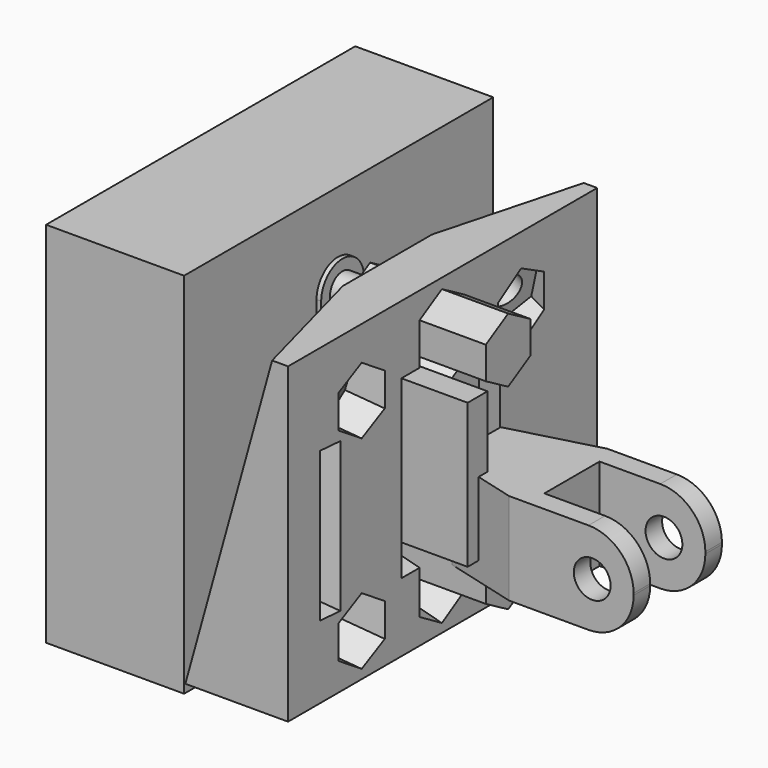
from build123d import *

# Parameters (mm, degrees)
PRISM001_DEPTH            = 15
CYLINDER261_R             = 1.7
CYLINDER261_DEPTH         = 20
BOX_W                     = 20
BOX_H                     = 2.7
BOX_DEPTH                 = 15.7
CYLINDER259_R             = 1.7
CYLINDER259_DEPTH         = 20
CYLINDER258_R             = 1.7
CYLINDER258_DEPTH         = 20
CYLINDER256_R             = 2.9
CYLINDER256_DEPTH         = 2
BOX181_W                  = 2
BOX181_H                  = 5.8
BOX181_DEPTH              = 21.3
CYLINDER257_R             = 2.9
CYLINDER257_DEPTH         = 2
BOX180_W                  = 3
BOX180_H                  = 10.8
BOX180_DEPTH              = 15.5
PRISM_DEPTH               = 15
CYLINDER260_R             = 1.7
CYLINDER260_DEPTH         = 20
BOX182_W                  = 15
BOX182_H                  = 42
BOX182_DEPTH              = 40
FUSION194_PITCH_ANGLE     = 15
FUSION194_PLACEMENT_ANGLE = 15
FUSION202_PITCH_ANGLE     = 15
FUSION202_PLACEMENT_ANGLE = -15
FUSION186_PLACEMENT_ANGLE = 15
BOX195_W                  = 15
BOX195_H                  = 42
BOX195_DEPTH              = 34
BOX208_W                  = 2.5
BOX208_H                  = 15
BOX208_DEPTH              = 15
BOX208_PLACEMENT_ANGLE    = 15
BOX188_W                  = 2.7
BOX188_H                  = 15
BOX188_DEPTH              = 15
BOX188_PLACEMENT_ANGLE    = 15
BOX162_W                  = 16
BOX162_H                  = 7.5
BOX162_DEPTH              = 12
CYLINDER240_R             = 2
CYLINDER240_DEPTH         = 15
BOX163_W                  = 22
BOX163_H                  = 12
BOX163_DEPTH              = 10
FILLET099_R               = 4.9
FILLET099_PLACEMENT_ANGLE = 180
CUT110_ROLL_ANGLE         = 180
CUT110_PLACEMENT_ANGLE    = -90
CUT128_PLACEMENT_ANGLE    = 90


with BuildPart() as prisma001:
    # Prism001 → Prism001 (new body)
    with BuildSketch(Plane(origin=(5, 5.4, 18.4), x_dir=(0, 0, -1), z_dir=(1, 0, 0))):
        Polygon((3.5, 0), (1.75, 3.031089), (-1.75, 3.031089), (-3.5, 0), (-1.75, -3.031089), (1.75, -3.031089), align=None)
    extrude(amount=PRISM001_DEPTH)


with BuildPart() as fusion178:
    # Cylinder261 → Cylinder261 (new body)
    with BuildSketch(Plane(origin=(0, 5.4, 18.4), x_dir=(0, 0, -1), z_dir=(1, 0, 0))):
        Circle(CYLINDER261_R)
    extrude(amount=CYLINDER261_DEPTH)

    # Fusion178: union Prisma001
    add(prisma001.part)


with BuildPart() as obj1:
    # Box → Box (new body)
    with BuildSketch(Plane(origin=(0, -0.1, -0.1), x_dir=(1, 0, 0), z_dir=(0, 0, 1))):
        with Locations((10, 1.35)):
            Rectangle(BOX_W, BOX_H)
    extrude(amount=BOX_DEPTH)


with BuildPart() as zylinder261:
    # Cylinder259 → Cylinder259 (new body)
    with BuildSketch(Plane(origin=(0, 5.4, 18.4), x_dir=(0, 0, -1), z_dir=(1, 0, 0))):
        Circle(CYLINDER259_R)
    extrude(amount=CYLINDER259_DEPTH)


with BuildPart() as compound:
    # Cylinder258 → Cylinder258 (new body)
    with BuildSketch(Plane(origin=(0, 5.4, -2.9), x_dir=(0, 0, -1), z_dir=(1, 0, 0))):
        Circle(CYLINDER258_R)
    extrude(amount=CYLINDER258_DEPTH)

    # Compound: union Zylinder261
    add(zylinder261.part)


with BuildPart() as zylinder258:
    # Cylinder256 → Cylinder256 (new body)
    with BuildSketch(Plane(origin=(0, 5.4, -2.9), x_dir=(0, 0, -1), z_dir=(1, 0, 0))):
        Circle(CYLINDER256_R)
    extrude(amount=CYLINDER256_DEPTH)


with BuildPart() as obj2:
    # Box181 → Box181 (new body)
    with BuildSketch(Plane(origin=(0, 2.5, -2.9), x_dir=(1, 0, 0), z_dir=(0, 0, 1))):
        with Locations((1, 2.9)):
            Rectangle(BOX181_W, BOX181_H)
    extrude(amount=BOX181_DEPTH)


with BuildPart() as cut119:
    # Cylinder257 → Cylinder257 (new body)
    with BuildSketch(Plane(origin=(0, 5.4, 18.4), x_dir=(0, 0, -1), z_dir=(1, 0, 0))):
        Circle(CYLINDER257_R)
    extrude(amount=CYLINDER257_DEPTH)

    # Fusion176: union Zylinder258, obj2
    add(zylinder258.part)
    add(obj2.part)

    # Cut119: cut Compound
    add(compound.part, mode=Mode.SUBTRACT)


with BuildPart() as fusion180:
    # Box180 → Box180 (new body)
    with BuildSketch(Plane.XY):
        with Locations((1.5, 5.4)):
            Rectangle(BOX180_W, BOX180_H)
    extrude(amount=BOX180_DEPTH)

    # Fusion177: union Cut119
    add(cut119.part)

    # Fusion179: union obj1
    add(obj1.part)

    # Fusion180: union Fusion178
    add(fusion178.part)


with BuildPart() as prisma:
    # Prism → Prism (new body)
    with BuildSketch(Plane(origin=(5, 5.4, -2.9), x_dir=(0, 0, -1), z_dir=(1, 0, 0))):
        Polygon((3.5, 0), (1.75, 3.031089), (-1.75, 3.031089), (-3.5, 0), (-1.75, -3.031089), (1.75, -3.031089), align=None)
    extrude(amount=PRISM_DEPTH)


with BuildPart() as fusion181:
    # Cylinder260 → Cylinder260 (new body)
    with BuildSketch(Plane(origin=(0, 5.4, -2.9), x_dir=(0, 0, -1), z_dir=(1, 0, 0))):
        Circle(CYLINDER260_R)
    extrude(amount=CYLINDER260_DEPTH)

    # Fusion: union Prisma
    add(prisma.part)

    # Fusion181: union Fusion180
    add(fusion180.part)


with BuildPart() as obj3:
    # Box182 → Box182 (new body)
    with BuildSketch(Plane(origin=(-13.5, -15.5, -12), x_dir=(1, 0, 0), z_dir=(0, 0, 1))):
        with Locations((7.5, 21)):
            Rectangle(BOX182_W, BOX182_H)
    extrude(amount=BOX182_DEPTH)


with BuildPart() as obj4:
    # Fusion182 base: copy of obj3
    add(obj3.part)

    # Fusion182: union Fusion181
    add(fusion181.part)


with BuildPart() as obj5:
    # Fusion194 base: copy of obj3
    add(obj3.part)

    # Fusion194: union Fusion181
    add(fusion181.part)


with BuildPart() as obj5_1:
    # Fusion194 pitch: moved
    add(obj5.part.rotate(Axis((0, 0, 0), (0, 1, 0)), FUSION194_PITCH_ANGLE))


with BuildPart() as obj5_2:
    # Fusion194 placement: moved
    add(obj5_1.part.moved(Location((2.586941, -13.824469, -0.164085))).rotate(Axis((2.586941, -13.824469, -0.164085), (0, 0, 1)), FUSION194_PLACEMENT_ANGLE))


with BuildPart() as obj6:
    # Fusion202 base: copy of obj3
    add(obj3.part)

    # Fusion202: union Fusion181
    add(fusion181.part)


with BuildPart() as obj6_1:
    # Fusion202 pitch: moved
    add(obj6.part.rotate(Axis((0, 0, 0), (0, 1, 0)), FUSION202_PITCH_ANGLE))


with BuildPart() as obj6_2:
    # Fusion202 placement: moved
    add(obj6_1.part.moved(Location((0, 14, 0))).rotate(Axis((0, 14, 0), (0, 0, 1)), FUSION202_PLACEMENT_ANGLE))


with BuildPart() as obj7:
    # Fusion186 base: copy of obj3
    add(obj3.part)

    # Fusion186: union Fusion181
    add(fusion181.part)


with BuildPart() as obj7_1:
    # Fusion186 placement: moved
    add(obj7.part.moved(Location((-0.482963, 0, 0.12941))).rotate(Axis((-0.482963, 0, 0.12941), (0, 1, 0)), FUSION186_PLACEMENT_ANGLE))


with BuildPart() as sensorhalter:
    # Box195 → Box195 (new body)
    with BuildSketch(Plane(origin=(-2.2, -15.5, -11), x_dir=(1, 0, 0), z_dir=(0, 0, 1))):
        with Locations((7.5, 21)):
            Rectangle(BOX195_W, BOX195_H)
    extrude(amount=BOX195_DEPTH)

    # Cut: cut obj7
    add(obj7_1.part, mode=Mode.SUBTRACT)

    # Cut123: cut obj6
    add(obj6_2.part, mode=Mode.SUBTRACT)

    # Cut124: cut obj5
    add(obj5_2.part, mode=Mode.SUBTRACT)


with BuildPart() as obj8:
    # Box208 → Box208 (new body)
    with BuildSketch(Plane.XY):
        with Locations((1.25, 7.5)):
            Rectangle(BOX208_W, BOX208_H)
    extrude(amount=BOX208_DEPTH)


with BuildPart() as obj8_1:
    # Box208 placement: moved
    add(obj8.part.moved(Location((24.700147, -2.122316, 7.9))).rotate(Axis((24.700147, -2.122316, 7.9), (0, 0, -1)), BOX208_PLACEMENT_ANGLE))


with BuildPart() as obj9:
    # Box188 → Box188 (new body)
    with BuildSketch(Plane.XY):
        with Locations((1.35, 7.5)):
            Rectangle(BOX188_W, BOX188_H)
    extrude(amount=BOX188_DEPTH)


with BuildPart() as obj9_1:
    # Box188 placement: moved
    add(obj9.part.moved(Location((16.489778, 0.077646, 7.9))).rotate(Axis((16.489778, 0.077646, 7.9), (0, 0, 1)), BOX188_PLACEMENT_ANGLE))


with BuildPart() as obj10:
    # Box162 → Box162 (new body)
    with BuildSketch(Plane(origin=(28.5, -3.75, -11.5), x_dir=(1, 0, 0), z_dir=(0, 0, 1))):
        with Locations((8, 3.75)):
            Rectangle(BOX162_W, BOX162_H)
    extrude(amount=BOX162_DEPTH)


with BuildPart() as fusion160:
    # Cylinder240 → Cylinder240 (new body)
    with BuildSketch(Plane(origin=(37.5, 7.5, -5.5), x_dir=(1, 0, 0), z_dir=(0, -1, 0))):
        Circle(CYLINDER240_R)
    extrude(amount=CYLINDER240_DEPTH)

    # Fusion160: union obj10
    add(obj10.part)


with BuildPart() as verbinder:
    # Box163 → Box163 (new body)
    with BuildSketch(Plane(origin=(27, -3.5, -10.5), x_dir=(1, 0, 0), z_dir=(0, 0, 1))):
        with Locations((11, 6)):
            Rectangle(BOX163_W, BOX163_H)
    extrude(amount=BOX163_DEPTH)

    # Fillet099
    fillet099_edges = [verbinder.edges().sort_by_distance(p)[0] for p in [
        (49, 2.5, -0.5),
        (49, 2.5, -10.5),
    ]]
    fillet(fillet099_edges, radius=FILLET099_R)


with BuildPart() as verbinder_1:
    # Fillet099 placement: moved
    add(verbinder.part.moved(Location((82, -2.5, -11))).rotate(Axis((82, -2.5, -11), (0, 1, 0)), FILLET099_PLACEMENT_ANGLE))

    # Cut110: cut Fusion160
    add(fusion160.part, mode=Mode.SUBTRACT)


with BuildPart() as verbinder_2:
    # Cut110 roll: moved
    add(verbinder_1.part.rotate(Axis((0, 0, 0), (1, 0, 0)), CUT110_ROLL_ANGLE))


with BuildPart() as verbinder_3:
    # Cut110 placement: moved
    add(verbinder_2.part.moved(Location((22.141646, 57.249544, 8.39933))).rotate(Axis((22.141646, 57.249544, 8.39933), (0, 0, 1)), CUT110_PLACEMENT_ANGLE))

    # Cut127: cut obj9
    add(obj9_1.part, mode=Mode.SUBTRACT)

    # Cut128: cut obj8
    add(obj8_1.part, mode=Mode.SUBTRACT)


with BuildPart() as verbinder_4:
    # Cut128 placement: moved
    add(verbinder_3.part.moved(Location((13.5, 28.4, -11))).rotate(Axis((13.5, 28.4, -11), (0, 0, -1)), CUT128_PLACEMENT_ANGLE))


solid = Compound([obj4.part, sensorhalter.part, verbinder_4.part])
